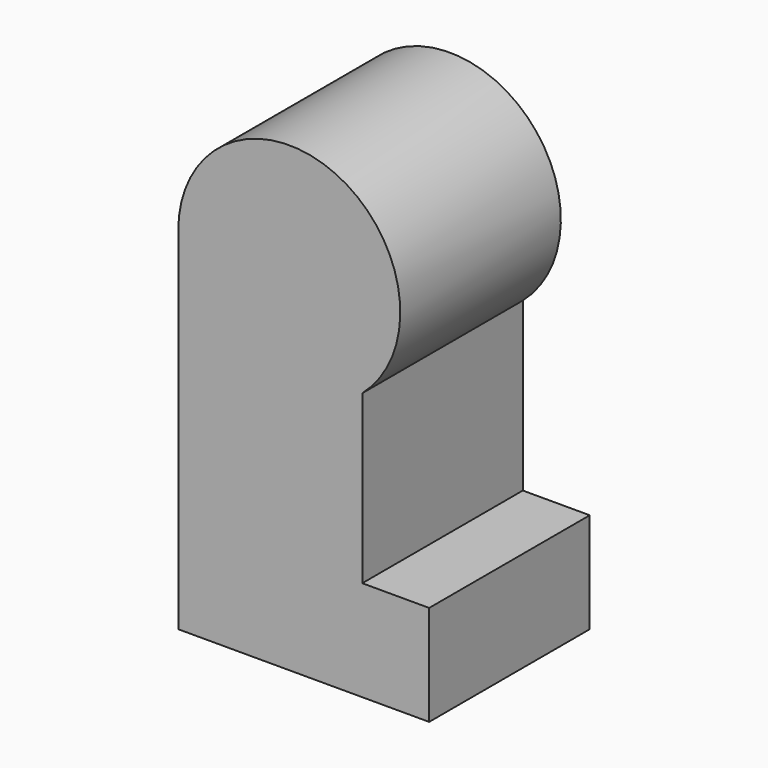
from build123d import *

# Parameters (mm, degrees)
F1_DEPTH = 24
F2_T     = -1.5
F3_R     = 5
F4_DEPTH = 5


with BuildPart() as f1:
    # F0 (on Front) → F1 (new body)
    with BuildSketch(Plane.XZ):
        with BuildLine():
            Line((0, 42), (0, 0))
            Line((0, 0), (30, 0))
            Line((30, 0), (30, 12))
            Line((30, 12), (22, 12))
            Line((22, 12), (22, 32))
            ThreePointArc((22, 32), (18.7650208971, 54.0830459736), (0, 42))
        make_face()
    extrude(amount=F1_DEPTH)

    # F2
    f2_openings = [f1.faces().sort_by_distance(p)[0] for p in [
        (15, -12, 0),
    ]]
    offset(amount=F2_T, openings=f2_openings, kind=Kind.INTERSECTION)

    # F3 (on face) → F4 (cut)
    with BuildSketch(Plane(origin=(0, 0, 0), x_dir=(-1, 0, 0), z_dir=(0, 1, 0))):
        with Locations((-13.2727272727, 42)):
            Circle(F3_R)
    extrude(amount=-F4_DEPTH, mode=Mode.SUBTRACT)


solid = f1.part
